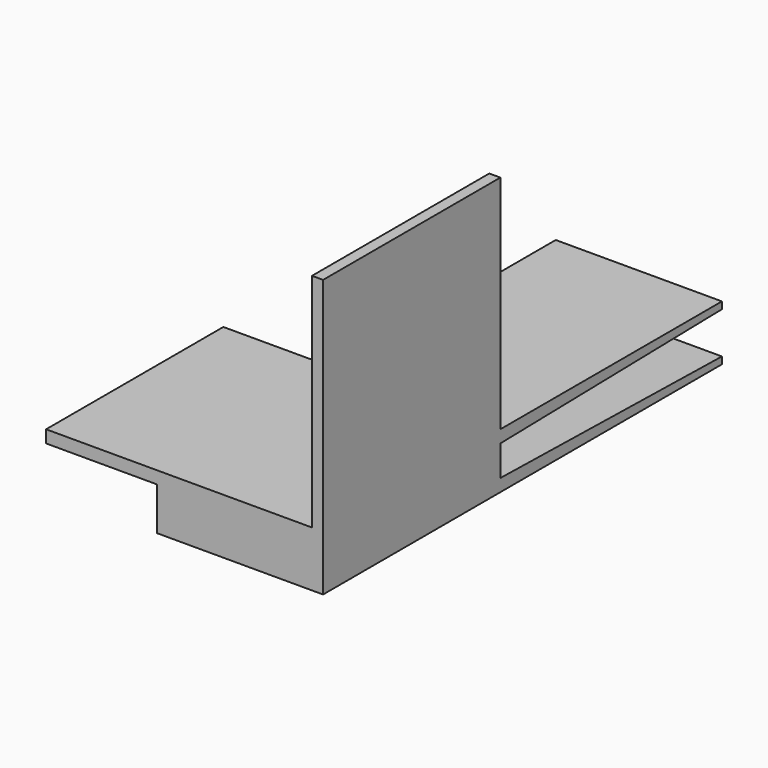
from build123d import *

# Parameters (mm, degrees)
F0_W     = 30
F0_H     = 10
F1_DEPTH = 40
F2_W     = 30
F2_H     = 2.25
F3_DEPTH = 50
F5_DEPTH = 30
F6_W     = 40
F6_H     = 2.25
F7_DEPTH = 20
F8_W     = 2
F8_H     = 40
F9_DEPTH = 40


with BuildPart() as f1:
    # F0 (on Front) → F1 (new body)
    with BuildSketch(Plane.XZ):
        with Locations((15, 5)):
            Rectangle(F0_W, F0_H)
    extrude(amount=F1_DEPTH)

    # F2 (on face) → F3 (join)
    with BuildSketch(Plane(origin=(0, 0, 0), x_dir=(-1, 0, 0), z_dir=(0, 1, 0))):
        with Locations((-15, 8.875)):
            Rectangle(F2_W, F2_H)
        with Locations((-15, 1.125)):
            Rectangle(F2_W, F2_H)
    extrude(amount=F3_DEPTH)

    # F4 (on face) → F5 (cut, through all)
    with BuildSketch(Plane(origin=(0, 0, 0), x_dir=(0, -1, 0), z_dir=(-1, 0, 0))):
        Polygon((-50, 7.75), (0, 7.75), (-50, 8.75), align=None)
        Polygon((-50, 1.25), (0, 2.25), (-50, 2.25), align=None)
    extrude(amount=-F5_DEPTH, mode=Mode.SUBTRACT)

    # F6 (on face) → F7 (join)
    with BuildSketch(Plane(origin=(0, 0, 0), x_dir=(0, -1, 0), z_dir=(-1, 0, 0))):
        with Locations((20, 8.875)):
            Rectangle(F6_W, F6_H)
    extrude(amount=F7_DEPTH)

    # F8 (on face) → F9 (join)
    with BuildSketch(Plane.XY.offset(10)):
        with Locations((29, -20)):
            Rectangle(F8_W, F8_H)
    extrude(amount=F9_DEPTH)


solid = f1.part
